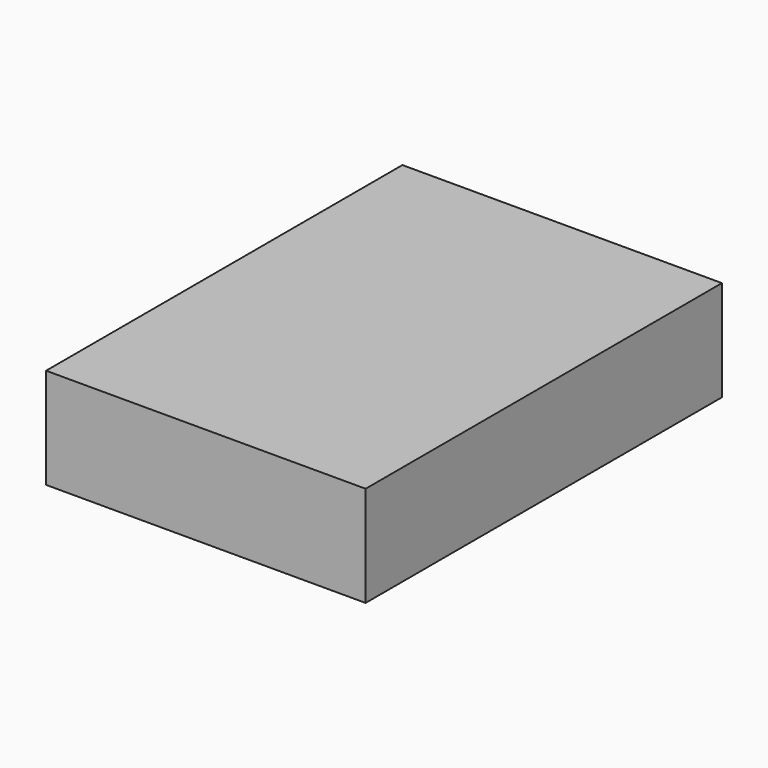
from build123d import *

# Parameters (mm, degrees)
F0_W     = 79.447552
F0_H     = 110.730588
F1_DEPTH = 25
F2_R     = 14.583541
F2_R_2   = 3.745805
F3_DEPTH = 25


with BuildPart() as f1:
    # F0 (on Top) → F1 (new body)
    with BuildSketch(Plane.XY):
        Rectangle(F0_W, F0_H)
    extrude(amount=F1_DEPTH)

    # F2 (on face) → F3 (join)
    with BuildSketch(Plane.XY.offset(25)):
        Circle(F2_R)
        Circle(F2_R_2, mode=Mode.SUBTRACT)
    extrude(amount=-F3_DEPTH)


solid = f1.part
